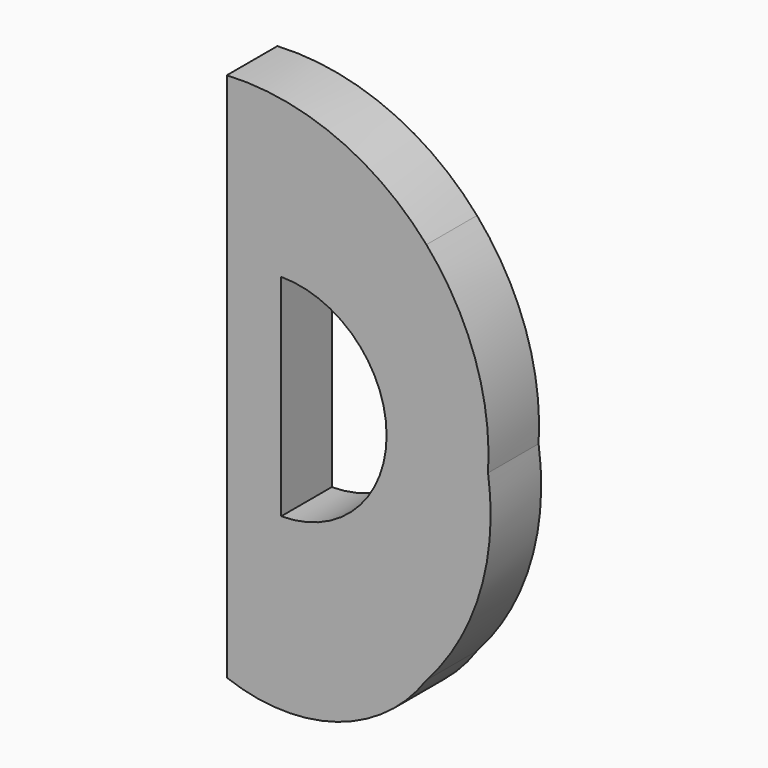
from build123d import *

# Parameters (mm, degrees)
F1_DEPTH = 3.3782


with BuildPart() as f1:
    # F0 (on Front) → F1 (new body)
    with BuildSketch(Plane.XZ):
        with BuildLine():
            ThreePointArc((15.074365, 54.256208), (10.258441, 57.739756), (4.402639, 58.75849))
            Line((4.402639, 58.75849), (4.402639, 30.406838))
            ThreePointArc((4.402639, 30.406838), (10.316826, 30.245667), (15.074365, 33.762682))
            ThreePointArc((15.074365, 33.762682), (17.931775, 38.804222), (18.369414, 44.582664))
            ThreePointArc((18.369414, 44.582664), (17.677893, 49.745075), (15.074365, 54.256208))
        make_face()
        with BuildLine():
            Line((7.310502, 38.948681), (7.310502, 44.582664))
            Line((7.310502, 44.582664), (7.310502, 50.216647))
            ThreePointArc((7.310502, 50.216647), (12.944485, 44.582664), (7.310502, 38.948681))
        make_face(mode=Mode.SUBTRACT)
    extrude(amount=F1_DEPTH)


solid = f1.part
